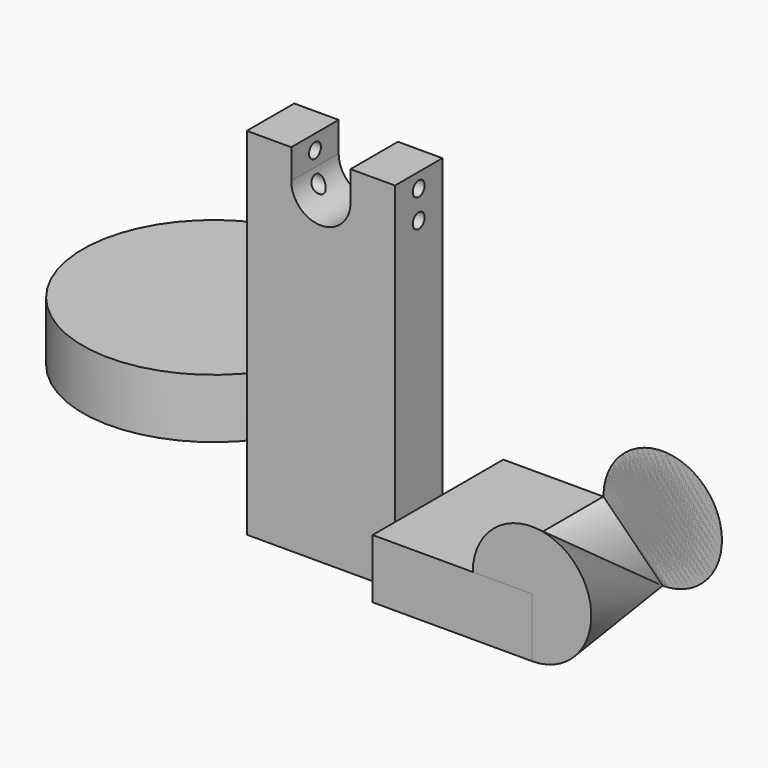
from build123d import *

# Parameters (mm, degrees)
F0_W      = 63.5
F0_H      = 152.4
F1_DEPTH  = 25.4
F3_DEPTH  = 25.4
F4_R      = 3.175
F5_DEPTH  = 63.501
F6_W      = 68.310976
F6_H      = 70.006091
F7_DEPTH  = 25.4
F7_FACE_W = 70.006092
F7_FACE_H = 25.4
F9_R      = 56.131763
F10_DEPTH = 25.4


with BuildPart() as f1:
    # F0 (on Front) → F1 (new body)
    with BuildSketch(Plane.XZ):
        with Locations((-31.75, 76.2)):
            Rectangle(F0_W, F0_H)
    extrude(amount=F1_DEPTH)

    # F2 (on face) → F3 (cut)
    with BuildSketch(Plane.XZ.offset(25.4)):
        with BuildLine():
            ThreePointArc((-31.75, 152.4), (-40.730256, 148.680256), (-44.45, 139.7))
            ThreePointArc((-44.45, 139.7), (-31.75, 127), (-19.05, 139.7))
            ThreePointArc((-19.05, 139.7), (-22.769744, 148.680256), (-31.75, 152.4))
        make_face()
        with BuildLine():
            Line((-44.45, 152.4), (-44.45, 139.7))
            ThreePointArc((-44.45, 139.7), (-40.730256, 148.680256), (-31.75, 152.4))
            Line((-31.75, 152.4), (-44.45, 152.4))
        make_face()
        with BuildLine():
            ThreePointArc((-31.75, 152.4), (-22.769744, 148.680256), (-19.05, 139.7))
            Line((-19.05, 139.7), (-19.05, 152.4))
            Line((-19.05, 152.4), (-31.75, 152.4))
        make_face()
    extrude(amount=-F3_DEPTH, mode=Mode.SUBTRACT)

    # F4 (on face) → F5 (cut, through all)
    with BuildSketch(Plane(origin=(-63.5, 0, 0), x_dir=(0, -1, 0), z_dir=(-1, 0, 0))):
        with Locations((12.7, 133.985)):
            Circle(F4_R)
        with Locations((12.7, 146.05)):
            Circle(F4_R)
    extrude(amount=-F5_DEPTH, mode=Mode.SUBTRACT)

    # F6 (on Top) → F7 (join)
    with BuildSketch(Plane.XY):
        with Locations((34.155488, -2.361911)):
            Rectangle(F6_W, F6_H)
    extrude(amount=F7_DEPTH)

    # F7_face (on face) → F8 (revolve)
    with BuildSketch(Plane(origin=(68.310976, -2.36191, 12.7), x_dir=(0, 1, 0), z_dir=(1, 0, 0))):
        Rectangle(F7_FACE_W, F7_FACE_H)
    revolve(axis=Axis((68.310976, -2.36191, 25.4), (0, 1, 0)))


with BuildPart() as f10:
    # F9 (on Top) → F10 (new body)
    with BuildSketch(Plane.XY):
        with Locations((-149.086386, 63.891836)):
            Circle(F9_R)
    extrude(amount=F10_DEPTH)


solid = Compound([f1.part, f10.part])
